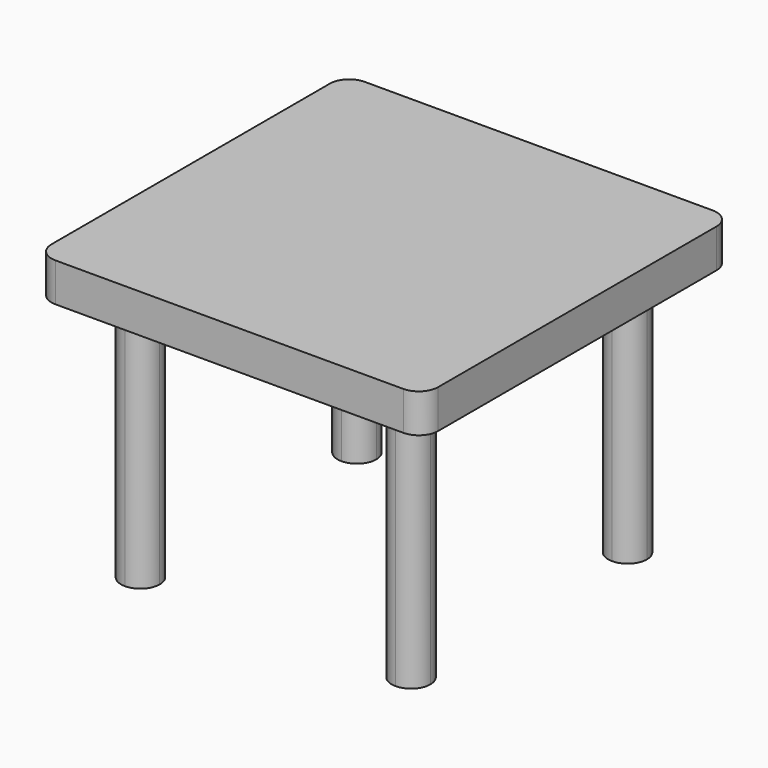
from build123d import *

# Parameters (mm, degrees)
F1_DEPTH = 40
F3_DEPTH = 260


with BuildPart() as f1:
    # F0 (on Top) → F1 (new body)
    with BuildSketch(Plane.XY):
        with BuildLine():
            Line((184.88144, 231.240067), (-175.11856, 231.240067))
            ThreePointArc((-175.11856, 231.240067), (-189.260696, 225.382203), (-195.11856, 211.240067))
            Line((-195.11856, 211.240067), (-195.11856, -148.759933))
            ThreePointArc((-195.11856, -148.759933), (-189.260696, -162.902068), (-175.11856, -168.759933))
            Line((-175.11856, -168.759933), (184.88144, -168.759933))
            ThreePointArc((184.88144, -168.759933), (199.023575, -162.902068), (204.88144, -148.759933))
            Line((204.88144, -148.759933), (204.88144, 211.240067))
            ThreePointArc((204.88144, 211.240067), (199.023575, 225.382203), (184.88144, 231.240067))
        make_face()
    extrude(amount=F1_DEPTH)

    # F2 (on face) → F3 (join)
    with BuildSketch(Plane(origin=(0, 0, 0), x_dir=(1, 0, 0), z_dir=(0, 0, -1))):
        with BuildLine():
            ThreePointArc((-135.11856, -191.240067), (-120.976425, -185.382203), (-115.11856, -171.240067))
            ThreePointArc((-115.11856, -171.240067), (-120.976425, -157.097932), (-135.11856, -151.240067))
            ThreePointArc((-135.11856, -151.240067), (-149.260696, -157.097932), (-155.11856, -171.240067))
            ThreePointArc((-155.11856, -171.240067), (-149.260696, -185.382203), (-135.11856, -191.240067))
        make_face()
        with BuildLine():
            ThreePointArc((-135.11856, 88.759933), (-120.976425, 94.617797), (-115.11856, 108.759933))
            ThreePointArc((-115.11856, 108.759933), (-120.976425, 122.902068), (-135.11856, 128.759933))
            ThreePointArc((-135.11856, 128.759933), (-149.260696, 122.902068), (-155.11856, 108.759933))
            ThreePointArc((-155.11856, 108.759933), (-149.260696, 94.617797), (-135.11856, 88.759933))
        make_face()
        with BuildLine():
            ThreePointArc((144.88144, 128.759933), (130.739304, 122.902068), (124.88144, 108.759933))
            ThreePointArc((124.88144, 108.759933), (130.739304, 94.617797), (144.88144, 88.759933))
            ThreePointArc((144.88144, 88.759933), (159.023575, 94.617797), (164.88144, 108.759933))
            ThreePointArc((164.88144, 108.759933), (159.023575, 122.902068), (144.88144, 128.759933))
        make_face()
        with BuildLine():
            ThreePointArc((164.88144, -171.240067), (159.023575, -157.097932), (144.88144, -151.240067))
            ThreePointArc((144.88144, -151.240067), (130.739304, -157.097932), (124.88144, -171.240067))
            ThreePointArc((124.88144, -171.240067), (130.739304, -185.382203), (144.88144, -191.240067))
            ThreePointArc((144.88144, -191.240067), (159.023575, -185.382203), (164.88144, -171.240067))
        make_face()
    extrude(amount=F3_DEPTH)


solid = f1.part
